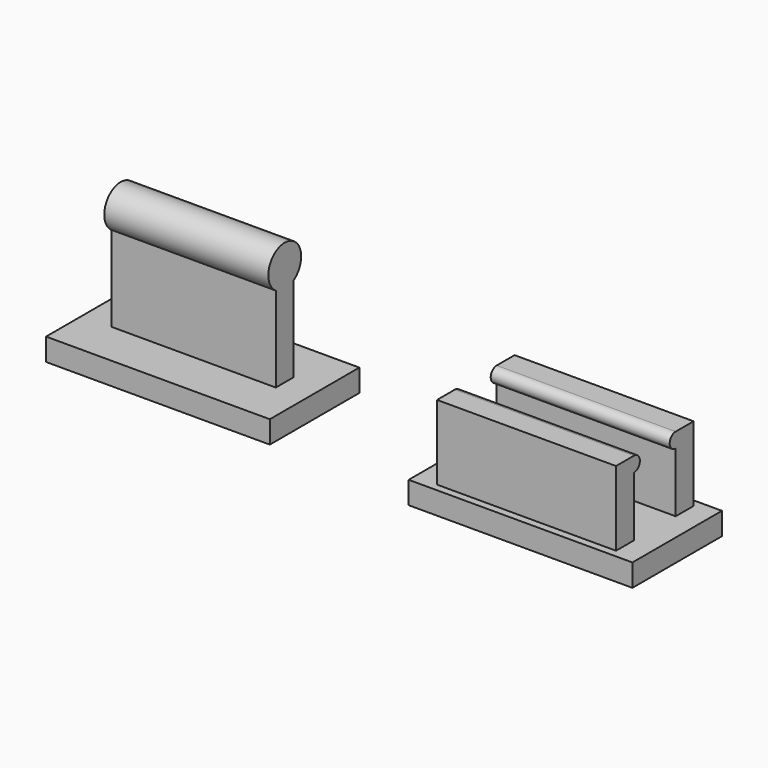
from build123d import *

# Parameters (mm, degrees)
F0_W      = 30
F0_H      = 15
F1_DEPTH  = 3
F2_W      = 24
F2_H      = 3
F3_DEPTH  = 10
F4_R      = 1
F5_DEPTH  = 24
F6_R      = 1
F7_DEPTH  = 24
F8_W      = 22
F8_H      = 3
F9_DEPTH  = 15
F10_R     = 2.75
F11_DEPTH = 22


with BuildPart() as f1:
    # F0 (on Top) → F1 (new body)
    with BuildSketch(Plane.XY):
        with Locations((-29.695525, -0.41682)):
            Rectangle(F0_W, F0_H)
        with Locations((20.23598, -2.060656)):
            Rectangle(F0_W, F0_H)
    extrude(amount=F1_DEPTH)

    # F2 (on face) → F3 (join)
    with BuildSketch(Plane.XY.offset(3)):
        with Locations((20.23598, 2.939344)):
            Rectangle(F2_W, F2_H)
        with Locations((20.23598, -7.060656)):
            Rectangle(F2_W, F2_H)
    extrude(amount=F3_DEPTH)

    # F4 (on face) → F5 (join)
    with BuildSketch(Plane.YZ.offset(32.23598)):
        with Locations((-5.560656, 12)):
            Circle(F4_R)
    extrude(amount=-F5_DEPTH)

    # F6 (on face) → F7 (join)
    with BuildSketch(Plane.YZ.offset(32.23598)):
        with Locations((1.439344, 12)):
            Circle(F6_R)
    extrude(amount=-F7_DEPTH)

    # F8 (on face) → F9 (join)
    with BuildSketch(Plane.XY.offset(3)):
        with Locations((-29.695525, -0.41682)):
            Rectangle(F8_W, F8_H)
    extrude(amount=F9_DEPTH)

    # F10 (on face) → F11 (join)
    with BuildSketch(Plane(origin=(-40.695525, 0, 0), x_dir=(0, -1, 0), z_dir=(-1, 0, 0))):
        with Locations((0.41682, 16.75)):
            Circle(F10_R)
    extrude(amount=-F11_DEPTH)


solid = f1.part
